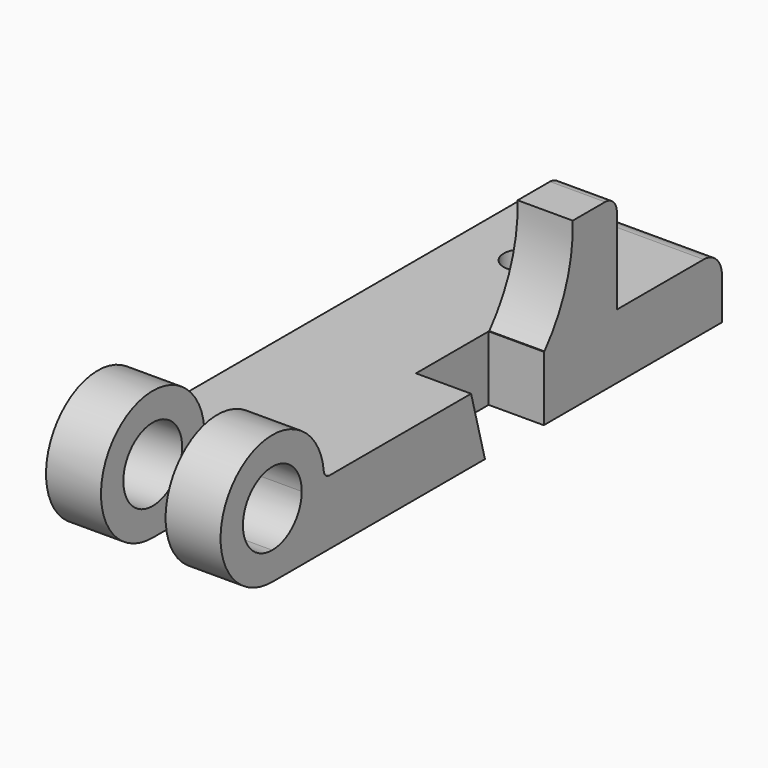
from build123d import *

# Parameters (mm, degrees)
F1_DEPTH  = 18.9992
F2_W      = 22.3266
F2_H      = 171.8564
F3_DEPTH  = 22.352
F5_R      = 12.7
F6_DEPTH  = 18.9992
F8_DEPTH  = 19.05
F10_DEPTH = 19.05
F11_R     = 6.35
F12_DEPTH = 22.353
F13_R     = 5.08
F14_R     = 7.874
F15_R     = 2.54


with BuildPart() as f1:
    # F0 (on Right) → F1 (new body)
    with BuildSketch(Plane.YZ):
        with BuildLine():
            ThreePointArc((22.352, 0), (-15.805251, 15.805251), (0, -22.352))
            Line((0, -22.352), (194.2084, -22.352))
            Line((194.2084, -22.352), (194.2084, 0))
            Line((194.2084, 0), (22.352, 0))
        make_face()
        with BuildLine():
            ThreePointArc((0, -12.7), (-8.980256, 8.980256), (12.7, 0))
            ThreePointArc((12.7, 0), (8.980256, -8.980256), (0, -12.7))
        make_face(mode=Mode.SUBTRACT)
    extrude(amount=-F1_DEPTH)

    # F2 (on Top) → F3 (join)
    with BuildSketch(Plane.XY):
        with Locations((-30.1625, 108.2802)):
            Rectangle(F2_W, F2_H)
    extrude(amount=-F3_DEPTH)

    # F5 (on offset) → F6 (join)
    with BuildSketch(Plane.YZ.offset(-41.3258)):
        with BuildLine():
            Line((194.2084, 0), (22.352, 0))
            ThreePointArc((22.352, 0), (-15.805251, 15.805251), (0, -22.352))
            Line((0, -22.352), (194.2084, -22.352))
            Line((194.2084, -22.352), (194.2084, 0))
        make_face()
        Circle(F5_R, mode=Mode.SUBTRACT)
    extrude(amount=-F6_DEPTH)

    # F7 (on Right) → F8 (cut)
    with BuildSketch(Plane.YZ):
        Polygon((117.2464, 0), (85.852, 0), (91.8464, -22.352), (117.2464, -22.352), align=None)
    extrude(amount=-F8_DEPTH, mode=Mode.SUBTRACT)

    # F9 (on Right) → F10 (join)
    with BuildSketch(Plane.YZ):
        with BuildLine():
            ThreePointArc((129.771803, 34.798), (126.921409, 16.24865), (117.530748, 0))
            Line((117.530748, 0), (148.821803, 0))
            Line((148.821803, 0), (148.821803, 34.798))
            Line((148.821803, 34.798), (129.771803, 34.798))
        make_face()
    extrude(amount=-F10_DEPTH)

    # F11 (on face) → F12 (cut, through all)
    with BuildSketch(Plane.XY):
        with Locations((-37.973, 155.3464)):
            Circle(F11_R)
    extrude(amount=-F12_DEPTH, mode=Mode.SUBTRACT)

    # F13
    f13_edges = [f1.edges().sort_by_distance(p)[0] for p in [
        (-9.525, 148.821803, 34.798),
    ]]
    fillet(f13_edges, radius=F13_R)

    # F14
    f14_edges = [f1.edges().sort_by_distance(p)[0] for p in [
        (-30.1625, 194.2084, 0),
    ]]
    fillet(f14_edges, radius=F14_R)

    # F15
    f15_edges = [f1.edges().sort_by_distance(p)[0] for p in [
        (-9.4996, 22.352, 0),
        (-50.8254, 22.352, 0),
    ]]
    fillet(f15_edges, radius=F15_R)


solid = f1.part
